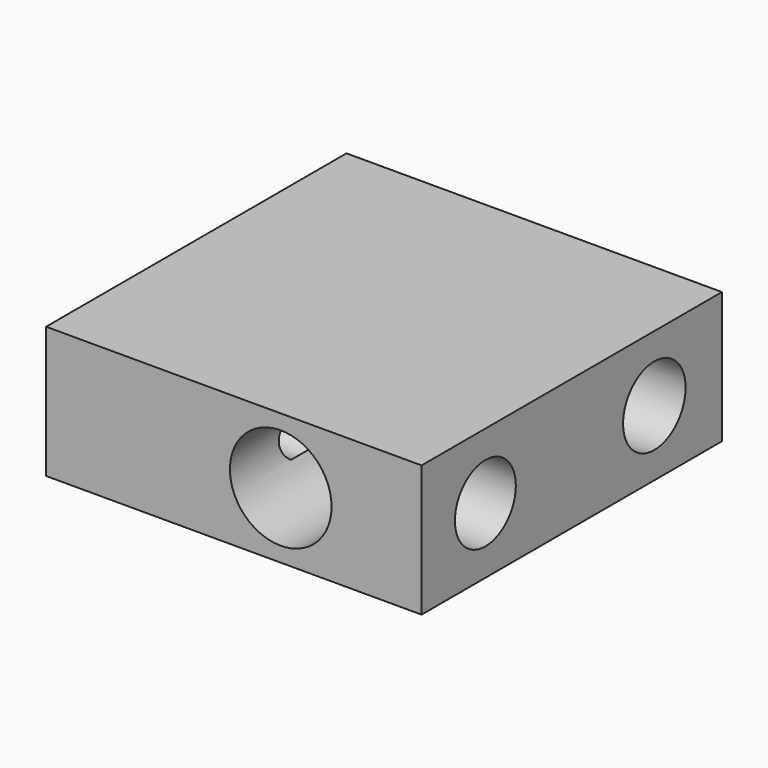
from build123d import *

# Parameters (mm, degrees)
F0_W      = 101.6
F0_H      = 101.6
F1_DEPTH  = 35.56
F2_R      = 13.75
F2_R_2    = 11.43
F5_DEPTH  = 66.04
F6_DEPTH  = 81.28
F4_R      = 10.3
F4_R_2    = 10.570977
F4_R_3    = 6.35
F7_DEPTH  = 25.4
F3_R      = 6.35
F8_DEPTH  = 50.8
F3_R_2    = 10.3
F3_R_3    = 10.675077
F9_DEPTH  = 25.4
F10_DEPTH = 38.1


with BuildPart() as f1:
    # F0 (on Top) → F1 (new body)
    with BuildSketch(Plane.XY):
        with Locations((50.8, 50.8)):
            Rectangle(F0_W, F0_H)
    extrude(amount=F1_DEPTH)

    # F2 (on face) → F5 (cut)
    with BuildSketch(Plane.XZ):
        with Locations((63.5, 17.78)):
            Circle(F2_R)
        with Locations((63.5, 17.78)):
            Circle(F2_R_2, mode=Mode.SUBTRACT)
        with Locations((63.5, 17.78)):
            Circle(F2_R_2)
    extrude(amount=-F5_DEPTH, mode=Mode.SUBTRACT)

    # F2 (on face) → F6 (cut)
    with BuildSketch(Plane.XZ):
        with Locations((63.5, 17.78)):
            Circle(F2_R_2)
    extrude(amount=-F6_DEPTH, mode=Mode.SUBTRACT)

    # F4 (on face) → F7 (cut)
    with BuildSketch(Plane.YZ.offset(101.6)):
        with Locations((21.59, 17.78)):
            Circle(F4_R)
        with Locations((78.74, 17.78)):
            Circle(F4_R_2)
        with Locations((78.74, 17.78)):
            Circle(F4_R_3, mode=Mode.SUBTRACT)
    extrude(amount=-F7_DEPTH, mode=Mode.SUBTRACT)

    # F3 (on face) → F8 (cut)
    with BuildSketch(Plane(origin=(0, 0, 0), x_dir=(0, -1, 0), z_dir=(-1, 0, 0))):
        with Locations((-60.96, 17.78)):
            Circle(F3_R)
        with Locations((-22.86, 17.78)):
            Circle(F3_R)
    extrude(amount=-F8_DEPTH, mode=Mode.SUBTRACT)

    # F3 (on face) → F9 (cut)
    with BuildSketch(Plane(origin=(0, 0, 0), x_dir=(0, -1, 0), z_dir=(-1, 0, 0))):
        with Locations((-60.96, 17.78)):
            Circle(F3_R_2)
        with Locations((-60.96, 17.78)):
            Circle(F3_R, mode=Mode.SUBTRACT)
        with Locations((-22.86, 17.78)):
            Circle(F3_R_3)
        with Locations((-22.86, 17.78)):
            Circle(F3_R, mode=Mode.SUBTRACT)
    extrude(amount=-F9_DEPTH, mode=Mode.SUBTRACT)

    # F4 (on face) → F10 (cut)
    with BuildSketch(Plane.YZ.offset(101.6)):
        with Locations((78.74, 17.78)):
            Circle(F4_R_3)
    extrude(amount=-F10_DEPTH, mode=Mode.SUBTRACT)


solid = f1.part
